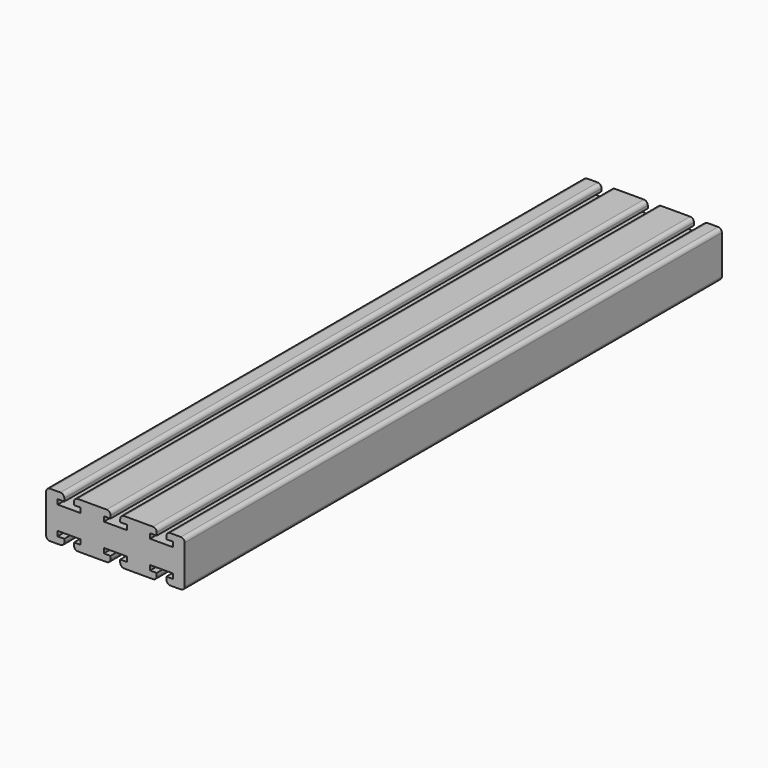
from build123d import *

# Parameters (mm, degrees)
F1_DEPTH = 553.72
F2_R     = 3.175


with BuildPart() as f1:
    # F0 (on Front) → F1 (new body)
    with BuildSketch(Plane.XZ):
        Polygon((57.15, 19.05), (42.1005, 19.05), (42.1005, 13.5255), (47.625, 13.5255), (47.625, 9.525), (42.1005, 9.525), (38.1, 9.525), (38.1, -9.525), (42.1005, -9.525), (47.625, -9.525), (47.625, -13.5255), (42.1005, -13.5255), (42.1005, -19.05), (57.15, -19.05), align=None)
        Polygon((-42.1005, 13.5255), (-42.1005, 19.05), (-57.15, 19.05), (-57.15, -19.05), (-42.1005, -19.05), (-42.1005, -13.5255), (-47.625, -13.5255), (-47.625, -9.525), (-42.1005, -9.525), (-38.1, -9.525), (-38.1, 9.525), (-42.1005, 9.525), (-47.625, 9.525), (-47.625, 13.5255), align=None)
        Polygon((-17.881323, 19.05), (-19.05, 19.05), (-34.0995, 19.05), (-34.0995, 13.5255), (-28.575, 13.5255), (-28.575, 9.525), (-34.0995, 9.525), (-38.1, 9.525), (-38.1, -9.525), (-34.0995, -9.525), (-28.575, -9.525), (-28.575, -13.5255), (-34.0995, -13.5255), (-34.0995, -19.05), (-19.05, -19.05), (-4.0005, -19.05), (-4.0005, -13.5255), (-9.525, -13.5255), (-9.525, -9.525), (-4.0005, -9.525), (0, -9.525), (0, 9.525), (-4.0005, 9.525), (-9.525, 9.525), (-9.525, 13.5255), (-4.0005, 13.5255), (-4.0005, 19.05), align=None)
        Polygon((19.05, 19.05), (4.0005, 19.05), (4.0005, 13.5255), (9.525, 13.5255), (9.525, 9.525), (4.0005, 9.525), (0, 9.525), (0, -9.525), (4.0005, -9.525), (9.525, -9.525), (9.525, -13.5255), (4.0005, -13.5255), (4.0005, -19.05), (19.05, -19.05), (34.0995, -19.05), (34.0995, -13.5255), (28.575, -13.5255), (28.575, -9.525), (34.0995, -9.525), (38.1, -9.525), (38.1, 9.525), (34.0995, 9.525), (28.575, 9.525), (28.575, 13.5255), (34.0995, 13.5255), (34.0995, 19.05), align=None)
    extrude(amount=F1_DEPTH)

    # F2
    f2_edges = [f1.edges().sort_by_distance(p)[0] for p in [
        (4.0005, -276.86, -19.05),
        (34.0995, -276.86, -19.05),
        (42.1005, -276.86, -19.05),
        (57.15, -276.86, -19.05),
        (-4.0005, -276.86, -19.05),
        (-34.0995, -276.86, -19.05),
        (-42.1005, -276.86, -19.05),
        (-57.15, -276.86, -19.05),
        (-57.15, -276.86, 19.05),
        (-42.1005, -276.86, 19.05),
        (-34.0995, -276.86, 19.05),
        (-4.0005, -276.86, 19.05),
        (4.0005, -276.86, 19.05),
        (34.0995, -276.86, 19.05),
        (42.1005, -276.86, 19.05),
        (57.15, -276.86, 19.05),
    ]]
    fillet(f2_edges, radius=F2_R)


solid = f1.part
